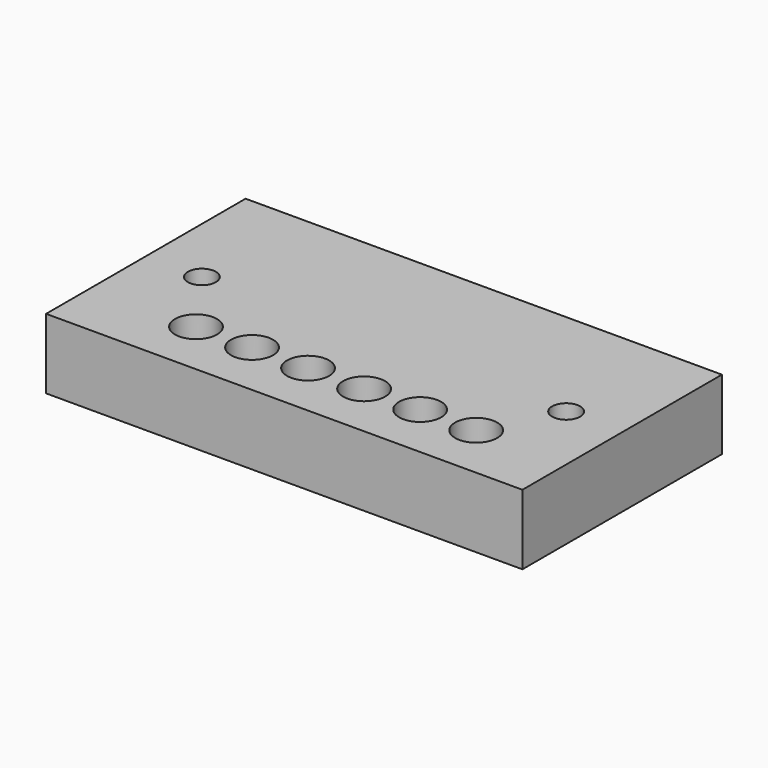
from build123d import *

# Parameters (mm, degrees)
F0_W     = 34
F0_H     = 17.8
F1_DEPTH = 5
F3_D     = 2
F5_D     = 2
F7_D     = 3


with BuildPart() as f1:
    # F0 (on Top) → F1 (new body)
    with BuildSketch(Plane.XY):
        Rectangle(F0_W, F0_H)
    extrude(amount=-F1_DEPTH)

    # F3 (through all)
    with Locations(Plane.XY):
        with Locations((-13, 0)):
            Hole(F3_D / 2)

    # F5 (through all)
    with Locations(Plane.XY):
        with Locations((13, 0)):
            Hole(F5_D / 2)

    # F7 (through all)
    with Locations(Plane.XY):
        with Locations((-9.5, -4.9), (-5.5, -4.9), (-1.5, -4.9), (2.5, -4.9), (6.5, -4.9), (10.5, -4.9)):
            Hole(F7_D / 2)


solid = f1.part
